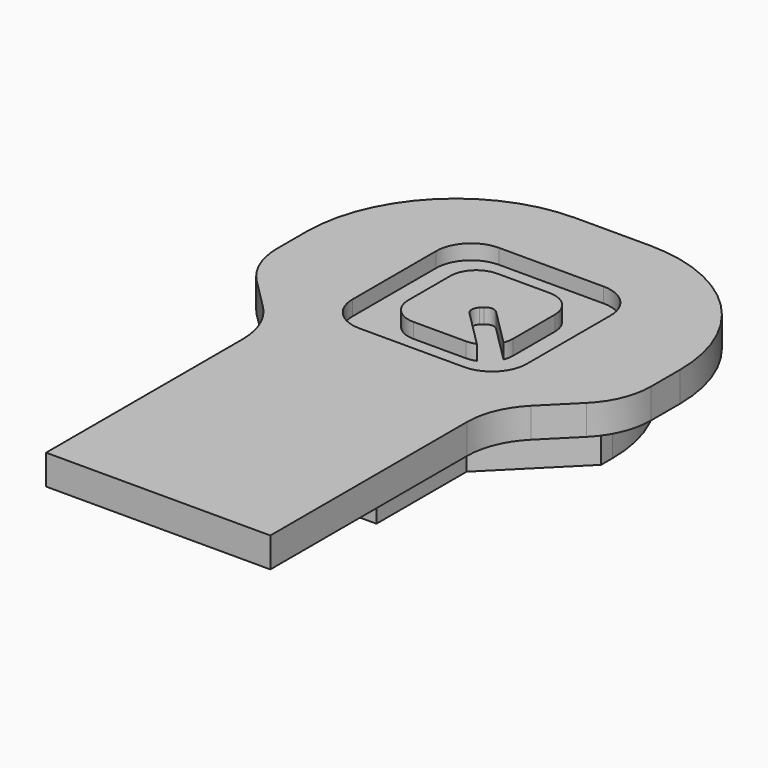
from build123d import *

# Parameters (mm, degrees)
F1_DEPTH = 2
F3_DEPTH = 3
F4_W     = 15
F4_H     = 2
F5_DEPTH = 4
F7_DEPTH = 1


with BuildPart() as f1:
    # F0 (on Top) → F1 (new body)
    with BuildSketch(Plane.XY):
        with BuildLine():
            Line((-7.5, 0), (0, 0))
            Line((0, 0), (7.5, 0))
            Line((7.5, 0), (7.5, 12.428932))
            ThreePointArc((7.5, 12.428932), (7.880602, 14.342349), (8.964466, 15.964466))
            Line((8.964466, 15.964466), (11.035534, 18.035534))
            ThreePointArc((11.035534, 18.035534), (12.119398, 19.657651), (12.5, 21.571068))
            Line((12.5, 21.571068), (12.5, 24))
            ThreePointArc((12.5, 24), (9.571068, 31.071068), (2.5, 34))
            Line((2.5, 34), (0, 34))
            Line((0, 34), (-2.5, 34))
            ThreePointArc((-2.5, 34), (-9.571068, 31.071068), (-12.5, 24))
            Line((-12.5, 24), (-12.5, 21.571068))
            ThreePointArc((-12.5, 21.571068), (-12.119398, 19.657651), (-11.035534, 18.035534))
            Line((-11.035534, 18.035534), (-8.964466, 15.964466))
            ThreePointArc((-8.964466, 15.964466), (-7.880602, 14.342349), (-7.5, 12.428932))
            Line((-7.5, 12.428932), (-7.5, 0))
        make_face()
    extrude(amount=F1_DEPTH)

    # F2 (on face) → F3 (join)
    with BuildSketch(Plane(origin=(0, 0, 0), x_dir=(1, 0, 0), z_dir=(0, 0, -1))):
        with BuildLine():
            ThreePointArc((0, -31.5), (7.071068, -28.571068), (10, -21.5))
            Line((10, -21.5), (10, -20.535534))
            Line((10, -20.535534), (5, -15.535534))
            Line((5, -15.535534), (5, -8))
            Line((5, -8), (-5, -8))
            Line((-5, -8), (-5, -15.535534))
            Line((-5, -15.535534), (-10, -20.535534))
            Line((-10, -20.535534), (-10, -21.5))
            ThreePointArc((-10, -21.5), (-7.071068, -28.571068), (0, -31.5))
        make_face()
    extrude(amount=F3_DEPTH)

    # F4 (on face) → F5 (join)
    with BuildSketch(Plane.XZ):
        with Locations((0, 1)):
            Rectangle(F4_W, F4_H)
    extrude(amount=F5_DEPTH)

    # F6 (on face) → F7 (cut)
    with BuildSketch(Plane.XY.offset(2)):
        with BuildLine():
            ThreePointArc((-5.833333, 19.535534), (-5.149916, 17.885618), (-3.5, 17.202201))
            Line((-3.5, 17.202201), (3.5, 17.202201))
            ThreePointArc((3.5, 17.202201), (5.149916, 17.885618), (5.833333, 19.535534))
            Line((5.833333, 19.535534), (5.833333, 26.535534))
            ThreePointArc((5.833333, 26.535534), (5.149916, 28.18545), (3.5, 28.868867))
            Line((3.5, 28.868867), (-3.5, 28.868867))
            ThreePointArc((-3.5, 28.868867), (-5.149916, 28.18545), (-5.833333, 26.535534))
            Line((-5.833333, 26.535534), (-5.833333, 19.535534))
        make_face()
        with BuildLine():
            Line((1.75, 19.535534), (-1.75, 19.535534))
            ThreePointArc((-1.75, 19.535534), (-2.987437, 20.048097), (-3.5, 21.285534))
            Line((-3.5, 21.285534), (-3.5, 24.785534))
            ThreePointArc((-3.5, 24.785534), (-2.987437, 26.022971), (-1.75, 26.535534))
            Line((-1.75, 26.535534), (1.75, 26.535534))
            ThreePointArc((1.75, 26.535534), (2.987437, 26.022971), (3.5, 24.785534))
            Line((3.5, 24.785534), (3.5, 21.285534))
            ThreePointArc((3.5, 21.285534), (3.46951, 20.96029), (3.379104, 20.646379))
            Line((3.379104, 20.646379), (0.907454, 23.11803))
            ThreePointArc((0.907454, 23.11803), (0.494975, 23.288884), (0.082496, 23.11803))
            Line((0.082496, 23.11803), (0, 23.035534))
            Line((0, 23.035534), (-0.082496, 22.953038))
            ThreePointArc((-0.082496, 22.953038), (-0.25335, 22.540559), (-0.082496, 22.12808))
            Line((-0.082496, 22.12808), (2.389155, 19.65643))
            ThreePointArc((2.389155, 19.65643), (2.075244, 19.566023), (1.75, 19.535534))
        make_face(mode=Mode.SUBTRACT)
    extrude(amount=-F7_DEPTH, mode=Mode.SUBTRACT)


solid = f1.part
